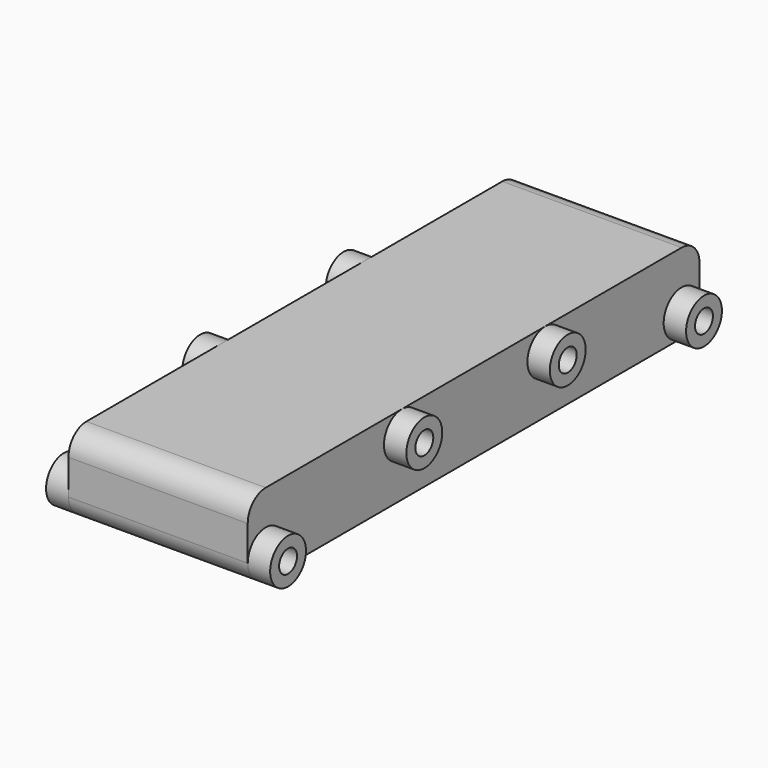
from build123d import *

# Parameters (mm, degrees)
F0_R          = 6.35
F1_DEPTH      = 101.6
F2_R          = 12.7
F2_R_2        = 6.35
F3_DEPTH      = 12.7
F3_DEPTH_BACK = 114.3


with BuildPart() as f1:
    # F0 (on Right) → F1 (new body)
    with BuildSketch(Plane.YZ):
        with BuildLine():
            Line((147.32, 32.512), (0, 32.512))
            ThreePointArc((0, 32.512), (-8.980256, 28.792256), (-12.7, 19.812))
            Line((-12.7, 19.812), (-12.7, 0))
            ThreePointArc((-12.7, 0), (-8.980256, -8.980256), (0, -12.7))
            Line((0, -12.7), (147.32, -12.7))
            Line((147.32, -12.7), (294.64, -12.7))
            ThreePointArc((294.64, -12.7), (303.620256, -8.980256), (307.34, 0))
            Line((307.34, 0), (307.34, 19.812))
            ThreePointArc((307.34, 19.812), (303.620256, 28.792256), (294.64, 32.512))
            Line((294.64, 32.512), (147.32, 32.512))
        make_face()
        Circle(F0_R, mode=Mode.SUBTRACT)
        with Locations((294.64, 0)):
            Circle(F0_R, mode=Mode.SUBTRACT)
        with Locations((96.52, 19.812)):
            Circle(F0_R, mode=Mode.SUBTRACT)
        with Locations((198.12, 19.812)):
            Circle(F0_R, mode=Mode.SUBTRACT)
    extrude(amount=F1_DEPTH)

    # F2 (on face) → F3 (join, two sides)
    with BuildSketch(Plane.YZ.offset(101.6)) as f3_sk:
        Circle(F2_R)
        Circle(F2_R_2, mode=Mode.SUBTRACT)
        with Locations((96.52, 19.812)):
            Circle(F2_R)
        with Locations((96.52, 19.812)):
            Circle(F2_R_2, mode=Mode.SUBTRACT)
        with Locations((198.12, 19.812)):
            Circle(F2_R)
        with Locations((198.12, 19.812)):
            Circle(F2_R_2, mode=Mode.SUBTRACT)
        with Locations((294.64, 0)):
            Circle(F2_R)
        with Locations((294.64, 0)):
            Circle(F2_R_2, mode=Mode.SUBTRACT)
    extrude(amount=F3_DEPTH)
    extrude(f3_sk.sketch, amount=-F3_DEPTH_BACK)


solid = f1.part
